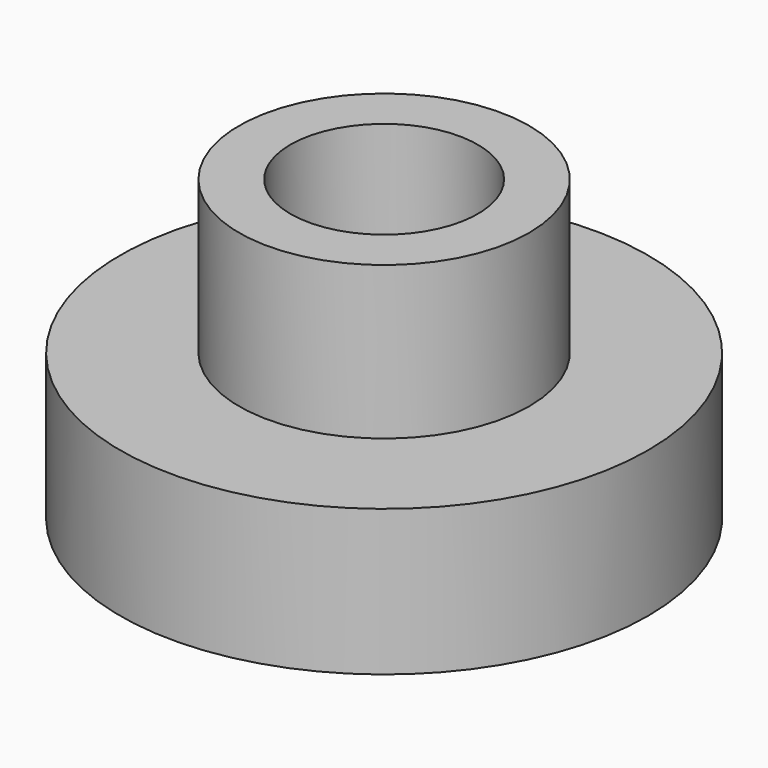
from build123d import *

# Parameters (mm, degrees)
F0_R           = 9.656937
F1_DEPTH       = 5.334
F2_R           = 5.306447
F3_DEPTH       = 5.588
F5_D           = 6.858
F5_CSINK_D     = 13.716
F5_CSINK_ANGLE = 82


with BuildPart() as f1:
    # F0 (on Top) → F1 (new body)
    with BuildSketch(Plane.XY):
        Circle(F0_R)
    extrude(amount=F1_DEPTH)

    # F2 (on face) → F3 (join)
    with BuildSketch(Plane.XY.offset(5.334)):
        Circle(F2_R)
    extrude(amount=F3_DEPTH)

    # F5 (through all)
    with Locations(Plane(origin=(0, 0, 0), x_dir=(1, 0, 0), z_dir=(0, 0, -1))):
        with Locations((0, 0)):
            CounterSinkHole(F5_D / 2, F5_CSINK_D / 2, counter_sink_angle=F5_CSINK_ANGLE)


solid = f1.part
